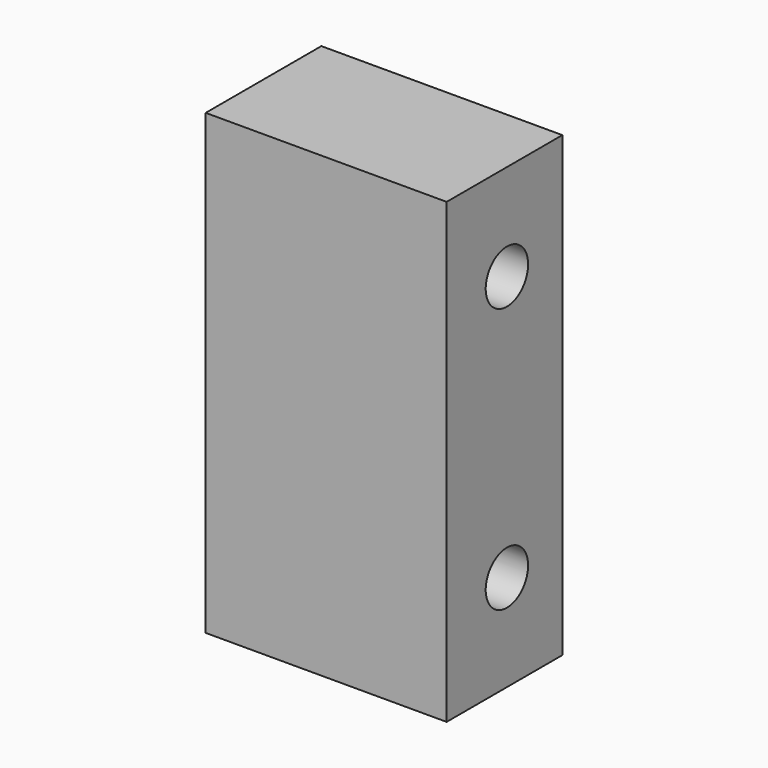
from build123d import *

# Parameters (mm, degrees)
F0_W     = 10
F0_H     = 19
F1_DEPTH = 6
F2_R     = 1.1
F3_DEPTH = 10
F4_R     = 1.1
F5_DEPTH = 10


with BuildPart() as f1:
    # F0 (on Front) → F1 (new body)
    with BuildSketch(Plane.XZ):
        with Locations((5, 9.5)):
            Rectangle(F0_W, F0_H)
    extrude(amount=F1_DEPTH)

    # F2 (on face) → F3 (cut)
    with BuildSketch(Plane.YZ.offset(10)):
        with Locations((-2.874218, 4)):
            Circle(F2_R)
        with Locations((-2.874218, 15)):
            Circle(F2_R)
    extrude(amount=-F3_DEPTH, mode=Mode.SUBTRACT)

    # F4 (on Top) → F5 (cut)
    with BuildSketch(Plane.XY):
        with Locations((7, -2.907384)):
            Circle(F4_R)
    extrude(amount=F5_DEPTH, mode=Mode.SUBTRACT)


solid = f1.part
